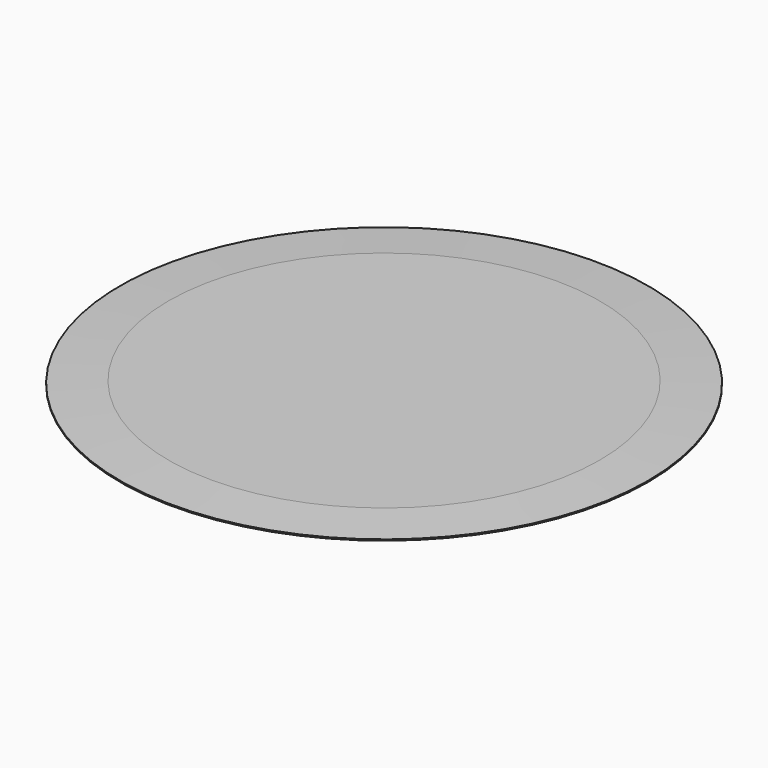
from build123d import *

# Parameters (mm, degrees)
F0_R     = 21.85
F1_DEPTH = 0.3
F2_SIZE2 = 4
F2_SIZE  = 0.2


with BuildPart() as f1:
    # F0 (on Top) → F1 (new body)
    with BuildSketch(Plane.XY):
        Circle(F0_R)
    extrude(amount=F1_DEPTH)

    # F2
    f2_edges = [f1.edges().sort_by_distance(p)[0] for p in [
        (-21.85, 0, 0.3),
    ]]
    chamfer(f2_edges, length=F2_SIZE, length2=F2_SIZE2)


solid = f1.part
